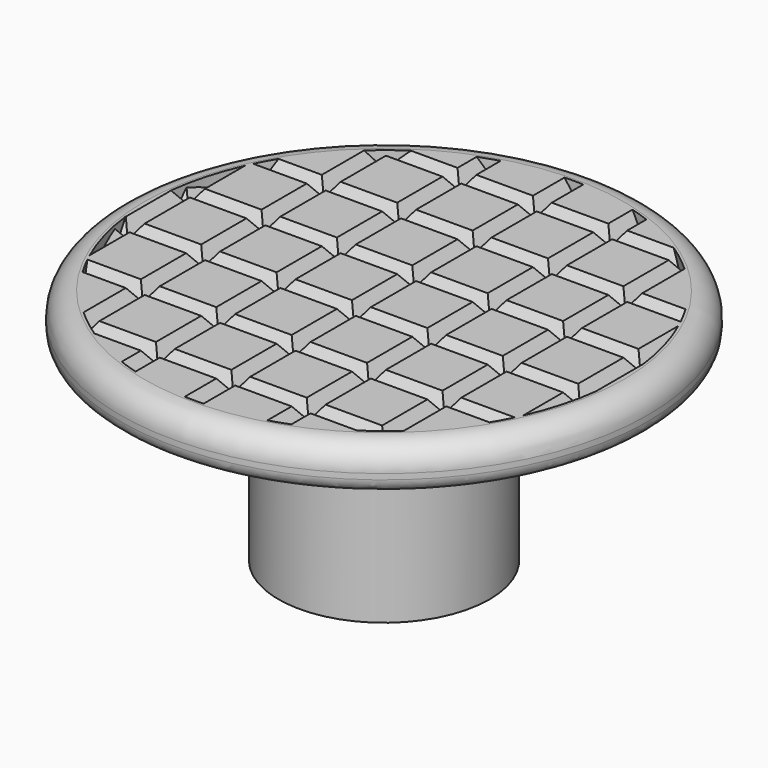
from build123d import *

# Parameters (mm, degrees)
CYLINDER001_R     = 2.5
CYLINDER001_DEPTH = 7
FILLET_1_R        = 5
FILLET_2_R        = 0.9
FILLET_3_R        = 0.5
CYLINDER_R        = 9
CYLINDER_DEPTH    = 1
PAD_DEPTH         = 20
PAD001_DEPTH      = 20


with BuildPart() as handle_pocket:
    # Cylinder001 → Cylinder001 (new body)
    with BuildSketch(Plane.XY):
        Circle(CYLINDER001_R)
    extrude(amount=CYLINDER001_DEPTH)


with BuildPart() as base_fillet:
    # Sketch → Revolution (revolve)
    with BuildSketch(Plane.XZ):
        Polygon((0, 0), (4, 0), (4, 7), (8, 7), (10, 7.5), (10, 9), (9, 9), (9, 8), (0, 8), align=None)
    revolve(axis=Axis((0, 0, 0), (0, 0, 1)))

    # Fillet 1
    fillet_1_edges = [base_fillet.edges().sort_by_distance(p)[0] for p in [
        (-8, 0, 7),
    ]]
    fillet(fillet_1_edges, radius=FILLET_1_R)

    # Fillet 2
    fillet_2_edges = [base_fillet.edges().sort_by_distance(p)[0] for p in [
        (-10, 0, 9),
    ]]
    fillet(fillet_2_edges, radius=FILLET_2_R)

    # Fillet 3
    fillet_3_edges = [base_fillet.edges().sort_by_distance(p)[0] for p in [
        (-10, 0, 7.5),
    ]]
    fillet(fillet_3_edges, radius=FILLET_3_R)


with BuildPart() as obj1:
    # Cylinder → Cylinder (new body)
    with BuildSketch(Plane.XY.offset(4)):
        Circle(CYLINDER_R)
    extrude(amount=CYLINDER_DEPTH)


with BuildPart() as obj2:
    # MirroredSketch → Pad (new body)
    with BuildSketch(Plane.XZ.offset(-10)):
        Polygon((7.142857, 6.5), (5.714286, 4.5), (4.285714, 6.5), (2.857143, 4.5), (1.428571, 6.5), (0, 4.5), (-1.428571, 6.5), (-2.857143, 4.5), (-4.285714, 6.5), (-5.714286, 4.5), (-7.142857, 6.5), (-8.571429, 4.5), (-10, 6.5), (-10, 7.5), (10, 7.5), (10, 6.5), (8.571429, 4.5), align=None)
    extrude(amount=PAD_DEPTH)


with BuildPart() as handle:
    # MirroredSketch002 → Pad001 (new body)
    with BuildSketch(Plane.YZ.offset(-10)):
        Polygon((7.142857, 4.5), (5.714286, 6.5), (4.285714, 4.5), (2.857143, 6.5), (1.428571, 4.5), (0, 6.5), (-1.428571, 4.5), (-2.857143, 6.5), (-4.285714, 4.5), (-5.714286, 6.5), (-7.142857, 4.5), (-8.571429, 6.5), (-10, 4.5), (-10, 3.5), (10, 3.5), (10, 4.5), (8.571429, 6.5), align=None)
    extrude(amount=PAD001_DEPTH)

    # Cut: cut obj2
    add(obj2.part, mode=Mode.SUBTRACT)

    # Common: intersect obj1
    add(obj1.part, mode=Mode.INTERSECT)


with BuildPart() as handle_1:
    # Common placement: moved
    add(handle.part.moved(Location((0, 0, 4))))

    # Fusion: union Base Fillet
    add(base_fillet.part)

    # Cut001: cut Handle Pocket
    add(handle_pocket.part, mode=Mode.SUBTRACT)


solid = handle_1.part
